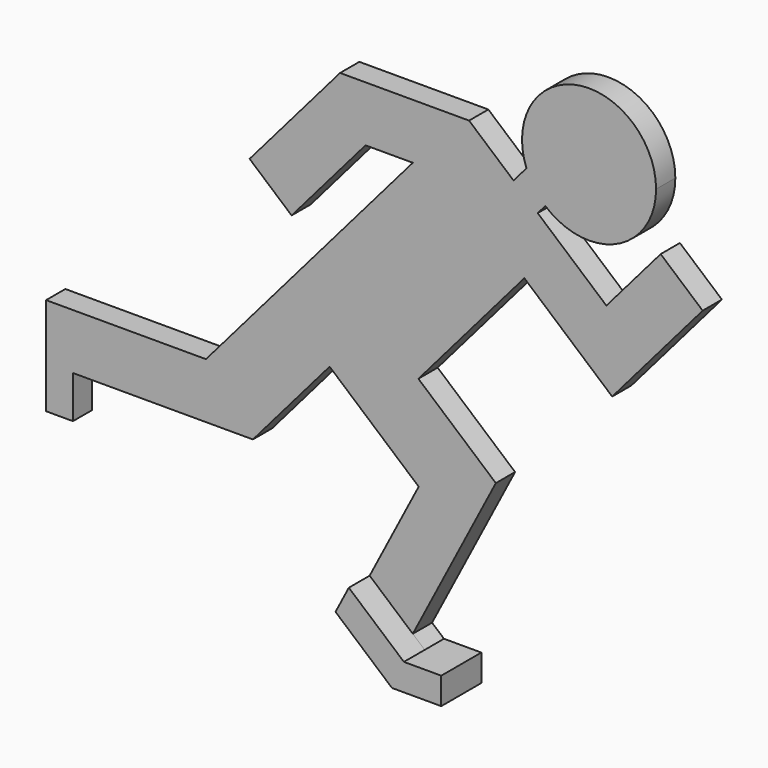
from build123d import *

# Parameters (mm, degrees)
F1_DEPTH = 1.85
F3_DEPTH = 2


with BuildPart() as f1:
    # F0 (on Front) → F1 (new body)
    with BuildSketch(Plane.XZ):
        with BuildLine():
            ThreePointArc((10.181424, 35.10782), (15.688682, 34.328624), (18.692279, 39.010018))
            ThreePointArc((18.692279, 39.010018), (12.611069, 44.075129), (8.729038, 37.178296))
            ThreePointArc((8.729038, 37.178296), (9.326157, 36.052516), (10.181424, 35.10782))
        make_face()
        with BuildLine():
            ThreePointArc((10.181424, 35.10782), (9.326157, 36.052516), (8.729038, 37.178296))
            Line((8.729038, 37.178296), (7.740627, 36.03068))
            Line((7.740627, 36.03068), (9.598273, 34.43074))
            Line((9.598273, 34.43074), (10.181424, 35.10782))
        make_face()
        Polygon((9.598273, 34.43074), (7.740627, 36.03068), (4.324033, 38.973298), (-5.589027, 38.973298), (-12.540483, 30.902152), (-9.313422, 28.122773), (-3.636302, 34.714323), (0, 34.714323), (-15.893627, 16.260666), (-28.178568, 16.260666), (-28.178568, 8.741623), (-26.115432, 8.741623), (-26.115432, 12.00169), (-12.288238, 12.00169), (-6.393013, 18.846476), (0.451773, 12.951251), (-4.339739, 3.737698), (0, 0), (3.78513, 0), (3.78513, 2.063135), (0.915639, 2.063135), (0, 2.85175), (6.379701, 15.119216), (0.429039, 20.244357), (8.569453, 29.69597), (15.320196, 23.881742), (22.271652, 31.952888), (19.044591, 34.732267), (14.872513, 29.888182), align=None)
    extrude(amount=F1_DEPTH)

    # F2 (on face) → F3 (join)
    with BuildSketch(Plane.XZ.offset(1.85)):
        Polygon((-4.339739, 3.737698), (0, 0), (3.78513, 0), (3.78513, 2.063135), (0.915639, 2.063135), (-3.315463, 5.707268), align=None)
    extrude(amount=F3_DEPTH)


solid = f1.part
